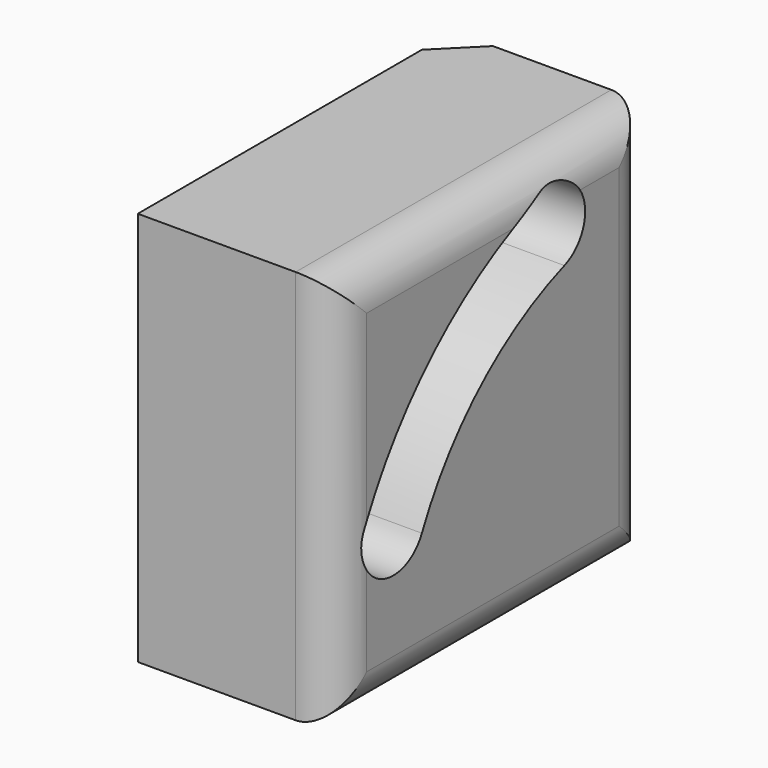
from build123d import *

# Parameters (mm, degrees)
F0_W     = 10
F0_H     = 20
F1_DEPTH = 20
F2_R     = 2
F3_SIZE  = 2
F5_DEPTH = 24.4


with BuildPart() as f1:
    # F0 (on Front) → F1 (new body)
    with BuildSketch(Plane.XZ):
        with Locations((5, 10)):
            Rectangle(F0_W, F0_H)
    extrude(amount=F1_DEPTH)

    # F2
    f2_edges = [f1.edges().sort_by_distance(p)[0] for p in [
        (10, -10, 0),
        (10, -10, 20),
        (10, 0, 10),
        (10, -20, 10),
    ]]
    fillet(f2_edges, radius=F2_R)

    # F3
    f3_edges = [f1.edges().sort_by_distance(p)[0] for p in [
        (0, 0, 10),
    ]]
    chamfer(f3_edges, length=F3_SIZE)

    # F4 (on face) → F5 (cut)
    with BuildSketch(Plane.YZ.offset(10)):
        with BuildLine():
            ThreePointArc((-5.472322, 15.035082), (-4.276977, 17.598507), (-6.840403, 18.793852))
            ThreePointArc((-6.840403, 18.793852), (-13.511804, 14.745547), (-18.126156, 8.452365))
            ThreePointArc((-18.126156, 8.452365), (-17.158777, 5.794513), (-14.500925, 6.761892))
            ThreePointArc((-14.500925, 6.761892), (-10.809443, 11.796437), (-5.472322, 15.035082))
        make_face()
    extrude(amount=-F5_DEPTH, mode=Mode.SUBTRACT)


solid = f1.part
